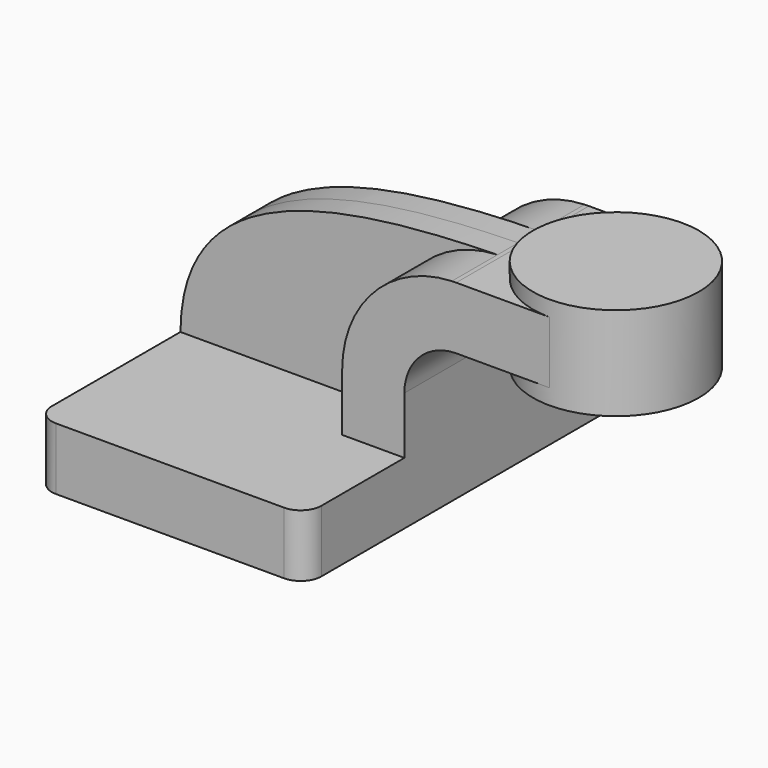
from build123d import *

# Parameters (mm, degrees)
F1_DEPTH = 63.5
F0_W     = 25.4
F0_H     = 19.05
F2_DEPTH = 25.4
F3_DEPTH = 7.9375
F4_DEPTH = 25.4
F6_R     = 6.35


with BuildPart() as f1:
    # F0 (on Front) → F1 (new body, symmetric)
    with BuildSketch(Plane.XZ):
        Polygon((-41.275, 9.525), (-41.275, -9.525), (41.275, -9.525), (41.275, 9.525), (22.225, 9.525), align=None)
    extrude(amount=F1_DEPTH, both=True)

    # F0 (on Front) → F2 (join, symmetric)
    with BuildSketch(Plane.XZ):
        with BuildLine():
            Line((22.225, 9.525), (41.275, 9.525))
            Line((41.275, 9.525), (41.275, 27.0002))
            ThreePointArc((41.275, 27.0002), (45.9246798487, 38.2255201513), (57.15, 42.8752))
            Line((57.15, 42.8752), (60.325, 42.8752))
            Line((60.325, 42.8752), (60.325, 61.9252))
            Line((60.325, 61.9252), (57.15, 61.9252))
            add(Edge.make_bspline(
                [(55.8177831664, 61.8997819933), (56.2614415323, 61.9087982491), (56.7055224041, 61.9172649875), (57.15, 61.9252)],
                knots=[110.5462795592, 110.5462795592, 110.5462795592, 110.5462795592, 111.5045361635, 111.5045361635, 111.5045361635, 111.5045361635], degree=3))
            ThreePointArc((55.8177831664, 61.8997819933), (31.9876938864, 51.2203151121), (22.225, 27.0002))
            Line((22.225, 27.0002), (22.225, 9.525))
        make_face()
        with Locations((73.025, 52.4002)):
            Rectangle(F0_W, F0_H)
    extrude(amount=F2_DEPTH, both=True)

    # F0 (on Front) → F3 (join, symmetric)
    with BuildSketch(Plane.XZ):
        with BuildLine():
            add(Edge.make_bspline(
                [(-41.275, 9.525), (-40.9218768846, 52.5063416026), (4.6365217787, 60.8596498155), (55.8177831664, 61.8997819933)],
                knots=[0, 0, 0, 0, 110.5462795592, 110.5462795592, 110.5462795592, 110.5462795592], degree=3))
            Line((-41.275, 9.525), (22.225, 9.525))
            Line((22.225, 9.525), (22.225, 27.0002))
            ThreePointArc((22.225, 27.0002), (31.9876938864, 51.2203151121), (55.8177831664, 61.8997819933))
        make_face()
    extrude(amount=F3_DEPTH, both=True)

    # F0 (on Front) → F4 (join, symmetric)
    with BuildSketch(Plane.XZ):
        with Locations((73.025, 52.4002)):
            Rectangle(F0_W, F0_H)
    extrude(amount=F4_DEPTH, both=True)

    # F0 (on Front) → F5 (revolve)
    with BuildSketch(Plane.XZ):
        Polygon((85.725, 66.675), (85.725, 61.9252), (85.725, 42.8752), (85.725, 38.1), (111.125, 38.1), (111.125, 66.675), align=None)
    revolve(axis=Axis((85.725, 0, 52.3875), (0, 0, 1)))

    # F6
    f6_edges = [f1.edges().sort_by_distance(p)[0] for p in [
        (41.275, -63.5, 0),
        (-41.275, 63.5, 0),
        (-41.275, -63.5, 0),
        (41.275, 63.5, 0),
    ]]
    fillet(f6_edges, radius=F6_R)


solid = f1.part
